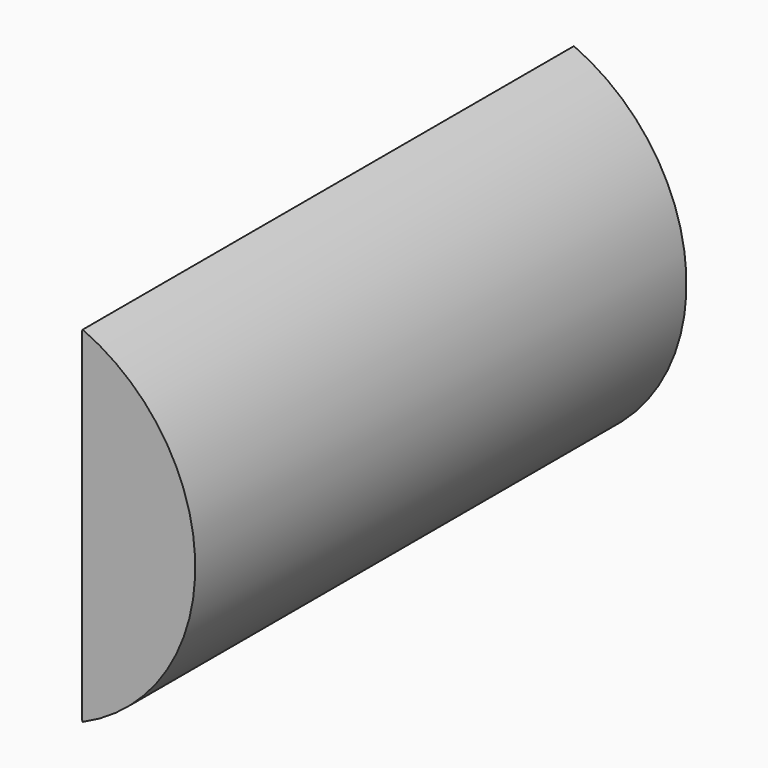
from build123d import *

# Parameters (mm, degrees)
F1_DEPTH = 152.4
F3_DEPTH = 17.526


with BuildPart() as f1:
    # F0 (on Front) → F1 (new body, symmetric)
    with BuildSketch(Plane.XZ):
        with BuildLine():
            Line((-0.476688, -84.644368), (0, -85.725))
            ThreePointArc((0, -85.725), (55.88, 0), (0, 85.725))
            Line((0, 85.725), (-0.476688, 84.644368))
            ThreePointArc((-0.476688, 84.644368), (54.6989, 0), (-0.476688, -84.644368))
        make_face()
    extrude(amount=F1_DEPTH, both=True)

    # F2 (on face) → F3 (join)
    with BuildSketch(Plane.XZ.offset(152.4)):
        with BuildLine():
            Line((-0.476688, 84.644368), (-0.476688, -84.644368))
            ThreePointArc((-0.476688, -84.644368), (54.6989, 0), (-0.476688, 84.644368))
        make_face()
    extrude(amount=-F3_DEPTH)

    # F4: F1 across plane


with BuildPart() as f1_1:
    add(f1.part)
    add(f1.part.mirror(Plane.XZ))


solid = f1_1.part
